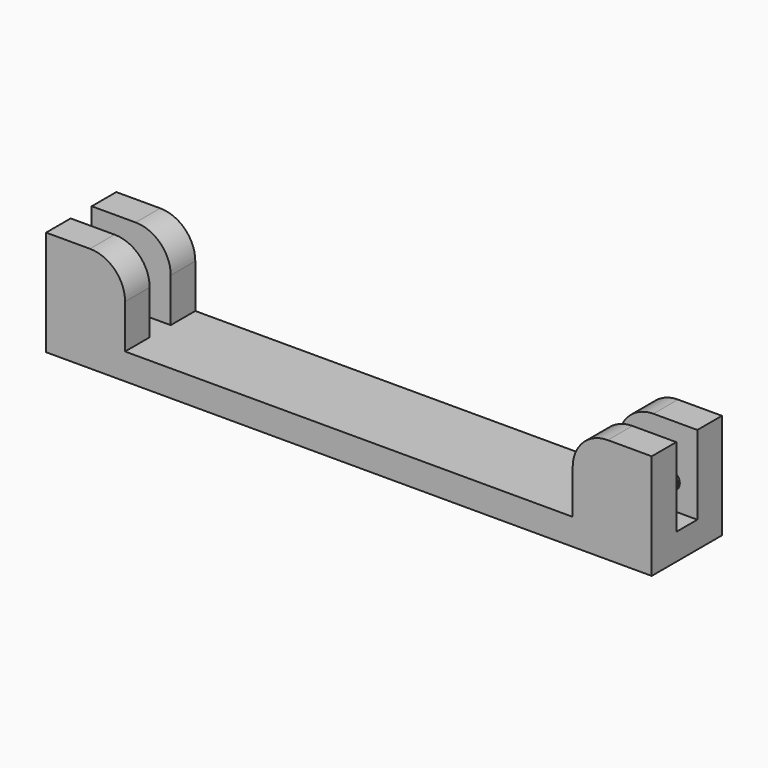
from build123d import *

# Parameters (mm, degrees)
F2_W     = 69
F2_H     = 10
F3_DEPTH = 3
F4_W     = 9
F4_H     = 3.5
F5_DEPTH = 9
F6_R     = 1
F7_DEPTH = 0.25
F8_R     = 4


with BuildPart() as f3:
    # F2 (on Top) → F3 (new body)
    with BuildSketch(Plane.XY):
        Rectangle(F2_W, F2_H)
    extrude(amount=F3_DEPTH)

    # F4 (on face) → F5 (join)
    with BuildSketch(Plane.XY.offset(3)):
        with Locations((-30, 3.25)):
            Rectangle(F4_W, F4_H)
    extrude(amount=F5_DEPTH)

    # F6 (on face) → F7 (join)
    with BuildSketch(Plane.XZ.offset(-1.5)):
        with Locations((-31.5, 6)):
            Circle(F6_R)
    extrude(amount=F7_DEPTH)

    # F8
    f8_edges = [f3.edges().sort_by_distance(p)[0] for p in [
        (-25.5, 3.25, 12),
    ]]
    fillet(f8_edges, radius=F8_R)

    # F9: F3 across plane


with BuildPart() as f3_1:
    add(f3.part)
    add(f3.part.mirror(Plane.YZ))

    # F10: F3 across plane


with BuildPart() as f3_2:
    add(f3_1.part)
    add(f3_1.part.mirror(Plane.XZ))


solid = f3_2.part
